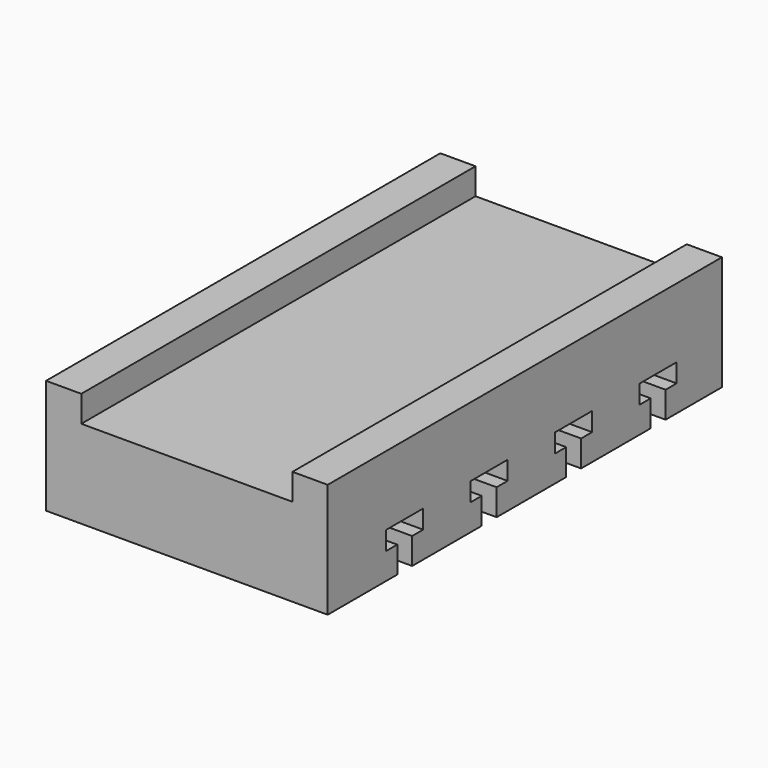
from build123d import *

# Parameters (mm, degrees)
F0_W      = 101.6
F0_H      = 177.8
F1_DEPTH  = 15.875
F1_FACE_W = 101.6
F1_FACE_H = 177.8
F2_DEPTH  = 15.875
F4_DEPTH  = 101.601
F5_W      = 12.7
F5_H      = 177.8
F6_DEPTH  = 9.525


with BuildPart() as f1:
    # F0 (on Top) → F1 (new body)
    with BuildSketch(Plane.XY):
        with Locations((-9.29141, -88.9)):
            Rectangle(F0_W, F0_H)
    extrude(amount=F1_DEPTH)

    # F1_face (on face) → F2 (join)
    with BuildSketch(Plane(origin=(-9.29141, -88.9, 0), x_dir=(1, 0, 0), z_dir=(0, 0, -1))):
        Rectangle(F1_FACE_W, F1_FACE_H)
    extrude(amount=F2_DEPTH)

    # F3 (on face) → F4 (cut, through all)
    with BuildSketch(Plane.YZ.offset(41.50859)):
        Polygon((-32.1183, -15.875), (-25.4, -15.875), (-25.4, -6.35), (-20.4343, -6.35), (-20.4343, 0.381), (-37.0967, 0.381), (-37.0967, -6.35), (-32.1183, -6.35), align=None)
        Polygon((-70.2183, -15.875), (-63.5, -15.875), (-63.5, -6.35), (-58.5343, -6.35), (-58.5343, 0.381), (-75.1967, 0.381), (-75.1967, -6.35), (-70.2183, -6.35), align=None)
        Polygon((-108.3183, -15.875), (-101.6, -15.875), (-101.6, -6.35), (-96.6343, -6.35), (-96.6343, 0.381), (-113.2967, 0.381), (-113.2967, -6.35), (-108.3183, -6.35), align=None)
        Polygon((-146.4183, -6.35), (-146.4183, -15.875), (-139.7, -15.875), (-139.7, -6.35), (-134.7343, -6.35), (-134.7343, 0.381), (-151.3967, 0.381), (-151.3967, -6.35), align=None)
    extrude(amount=-F4_DEPTH, mode=Mode.SUBTRACT)

    # F5 (on face) → F6 (join)
    with BuildSketch(Plane.XY.offset(15.875)):
        with Locations((-53.74141, -88.9)):
            Rectangle(F5_W, F5_H)
        with Locations((35.15859, -88.9)):
            Rectangle(F5_W, F5_H)
    extrude(amount=F6_DEPTH)


solid = f1.part
